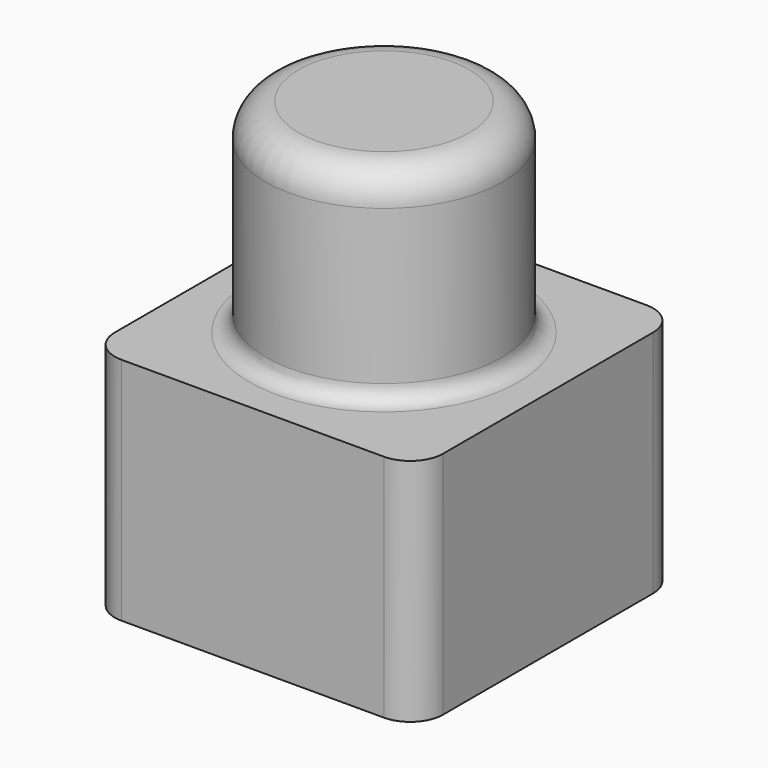
from build123d import *

# Parameters (mm, degrees)
CYLINDER_R     = 3.6
CYLINDER_DEPTH = 6.2
BOX_W          = 10
BOX_H          = 10
BOX_DEPTH      = 7
FILLET_R       = 1
FILLET001_R    = 0.5
FILLET002_R    = 1


with BuildPart() as cylinder:
    # Cylinder → Cylinder (new body)
    with BuildSketch(Plane.XY):
        Circle(CYLINDER_R)
    extrude(amount=CYLINDER_DEPTH)


with BuildPart() as fillet002:
    # Box → Box (new body)
    with BuildSketch(Plane(origin=(-5, -5, -7), x_dir=(1, 0, 0), z_dir=(0, 0, 1))):
        with Locations((5, 5)):
            Rectangle(BOX_W, BOX_H)
    extrude(amount=BOX_DEPTH)

    # Fusion: union Cylinder
    add(cylinder.part)

    # Fillet
    fillet_edges = [fillet002.edges().sort_by_distance(p)[0] for p in [
        (-5, -5, -3.5),
        (-5, 5, -3.5),
        (5, -5, -3.5),
        (5, 5, -3.5),
    ]]
    fillet(fillet_edges, radius=FILLET_R)

    # Fillet001
    fillet001_edges = [fillet002.edges().sort_by_distance(p)[0] for p in [
        (-3.6, 0, 0),
    ]]
    fillet(fillet001_edges, radius=FILLET001_R)

    # Fillet002
    fillet002_edges = [fillet002.edges().sort_by_distance(p)[0] for p in [
        (-3.6, 0, 6.2),
    ]]
    fillet(fillet002_edges, radius=FILLET002_R)


solid = fillet002.part
